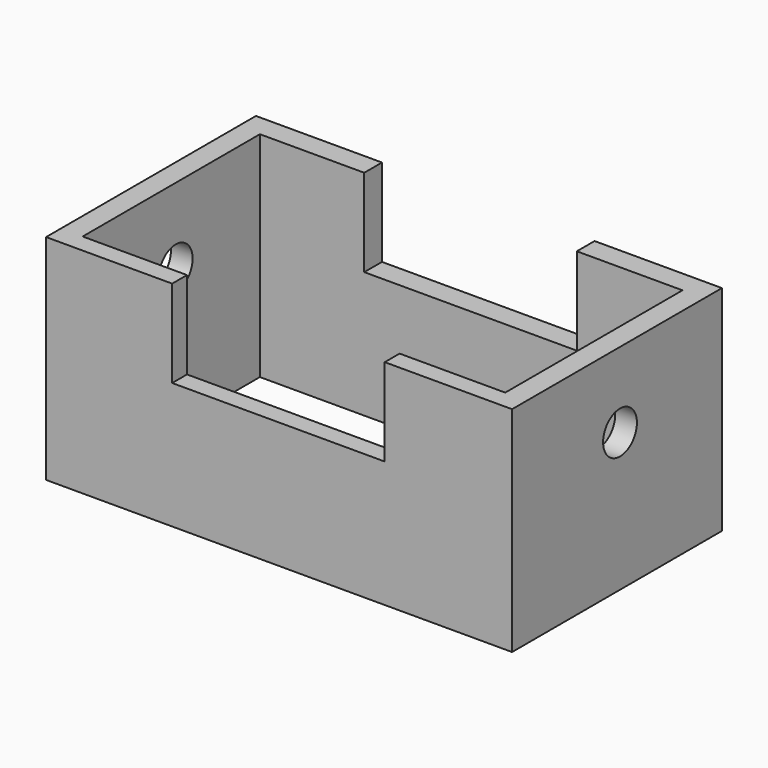
from build123d import *

# Parameters (mm, degrees)
F0_W      = 276.7956107855
F0_H      = 155.8074429631
F1_DEPTH  = 127
F2_R      = 12.5546361004
F3_DEPTH  = 276.7966107855
F4_W      = 126.266527921
F4_H      = 51.968123436
F5_DEPTH  = 155.8084429631
F6_W      = 251.0117739439
F6_H      = 131.5910294652
F7_DEPTH  = 75.032876564
F8_W      = 61.992302537
F8_H      = 58.8230818466
F9_DEPTH  = 51.969123436
F10_W     = 61.992302537
F10_H     = 52.2348090963
F11_DEPTH = 51.969123436
F12_W     = 62.752943486
F12_H     = 58.8230818466
F13_DEPTH = 51.969123436
F14_W     = 62.752943486
F14_H     = 52.2348090963
F15_DEPTH = 51.969123436
F16_W     = 61.992302537
F16_H     = 20.5331385223
F17_DEPTH = 127.001
F18_W     = 62.752943486
F18_H     = 20.5331385223
F19_DEPTH = 127.001


with BuildPart() as f1:
    # F0 (on Top) → F1 (new body)
    with BuildSketch(Plane.XY):
        with Locations((-4.9713328481, -2.2223033011)):
            Rectangle(F0_W, F0_H)
    extrude(amount=F1_DEPTH)

    # F2 (on face) → F3 (cut, through all)
    with BuildSketch(Plane.YZ.offset(133.4264725447)):
        with Locations((0, 82.2579711676)):
            Circle(F2_R)
    extrude(amount=-F3_DEPTH, mode=Mode.SUBTRACT)

    # F4 (on face) → F5 (cut, through all)
    with BuildSketch(Plane(origin=(0, 75.6814181805, 0), x_dir=(-1, 0, 0), z_dir=(0, 1, 0))):
        with Locations((5.3516533226, 101.015938282)):
            Rectangle(F4_W, F4_H)
    extrude(amount=-F5_DEPTH, mode=Mode.SUBTRACT)

    # F6 (on face) → F7 (cut, through all)
    with BuildSketch(Plane.XY.offset(75.031876564)):
        with Locations((-4.9713328481, -3.2941363752)):
            Rectangle(F6_W, F6_H)
    extrude(amount=-F7_DEPTH, mode=Mode.SUBTRACT)

    # F8 (on face) → F9 (cut, through all)
    with BuildSketch(Plane(origin=(0, 0, 75.031876564), x_dir=(1, 0, 0), z_dir=(0, 0, -1))):
        with Locations((-99.4810685515, 39.6781101845)):
            Rectangle(F8_W, F8_H)
    extrude(amount=-F9_DEPTH, mode=Mode.SUBTRACT)

    # F10 (on face) → F11 (cut, through all)
    with BuildSketch(Plane(origin=(0, 0, 75.031876564), x_dir=(1, 0, 0), z_dir=(0, 0, -1))):
        with Locations((-99.4810685515, -36.3839738093)):
            Rectangle(F10_W, F10_H)
    extrude(amount=-F11_DEPTH, mode=Mode.SUBTRACT)

    # F12 (on face) → F13 (cut, through all)
    with BuildSketch(Plane(origin=(0, 0, 75.031876564), x_dir=(1, 0, 0), z_dir=(0, 0, -1))):
        with Locations((89.1580823809, 39.6781101845)):
            Rectangle(F12_W, F12_H)
    extrude(amount=-F13_DEPTH, mode=Mode.SUBTRACT)

    # F14 (on face) → F15 (cut, through all)
    with BuildSketch(Plane(origin=(0, 0, 75.031876564), x_dir=(1, 0, 0), z_dir=(0, 0, -1))):
        with Locations((89.1580823809, -36.3839738093)):
            Rectangle(F14_W, F14_H)
    extrude(amount=-F15_DEPTH, mode=Mode.SUBTRACT)

    # F16 (on face) → F17 (cut, through all)
    with BuildSketch(Plane.XY.offset(127)):
        with Locations((-99.4810685515, 0)):
            Rectangle(F16_W, F16_H)
    extrude(amount=-F17_DEPTH, mode=Mode.SUBTRACT)

    # F18 (on face) → F19 (cut, through all)
    with BuildSketch(Plane.XY.offset(127)):
        with Locations((89.1580823809, 0)):
            Rectangle(F18_W, F18_H)
    extrude(amount=-F19_DEPTH, mode=Mode.SUBTRACT)


solid = f1.part
